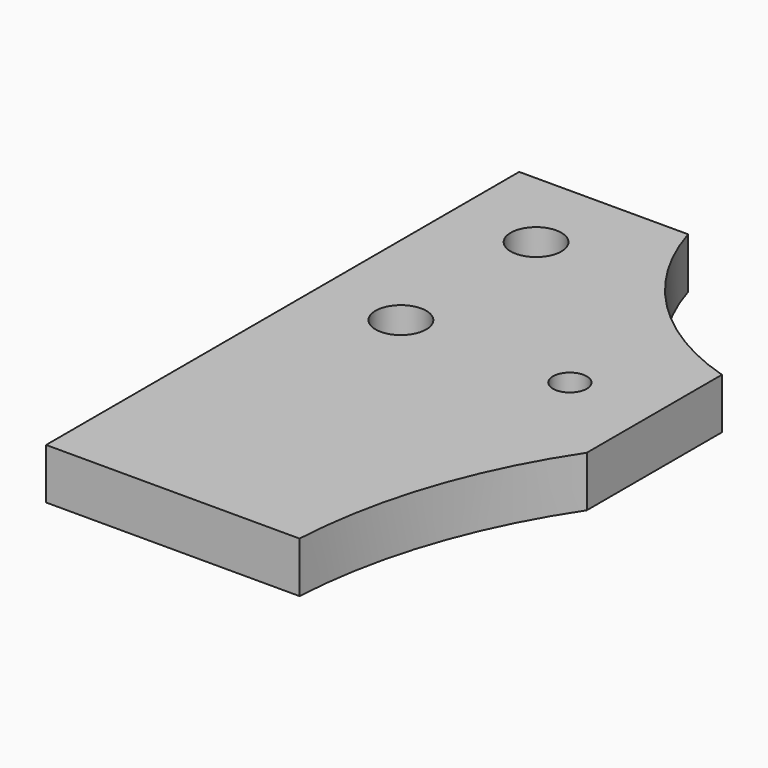
from build123d import *

# Parameters (mm, degrees)
F0_R     = 3
F0_R_2   = 2
F1_DEPTH = 6


with BuildPart() as f1:
    # F0 (on Top) → F1 (new body)
    with BuildSketch(Plane.XY):
        with BuildLine():
            ThreePointArc((30, -10), (17.495083, -2.504917), (10, 10))
            Line((10, 10), (-10, 10))
            Line((-10, 10), (-10, -60))
            Line((-10, -60), (20, -60))
            ThreePointArc((20, -60), (22.988018, -44.329339), (30, -30))
            Line((30, -30), (30, -10))
        make_face()
        with Locations((0, -20)):
            Circle(F0_R, mode=Mode.SUBTRACT)
        Circle(F0_R, mode=Mode.SUBTRACT)
        with Locations((20, -20)):
            Circle(F0_R_2, mode=Mode.SUBTRACT)
    extrude(amount=F1_DEPTH)


solid = f1.part
